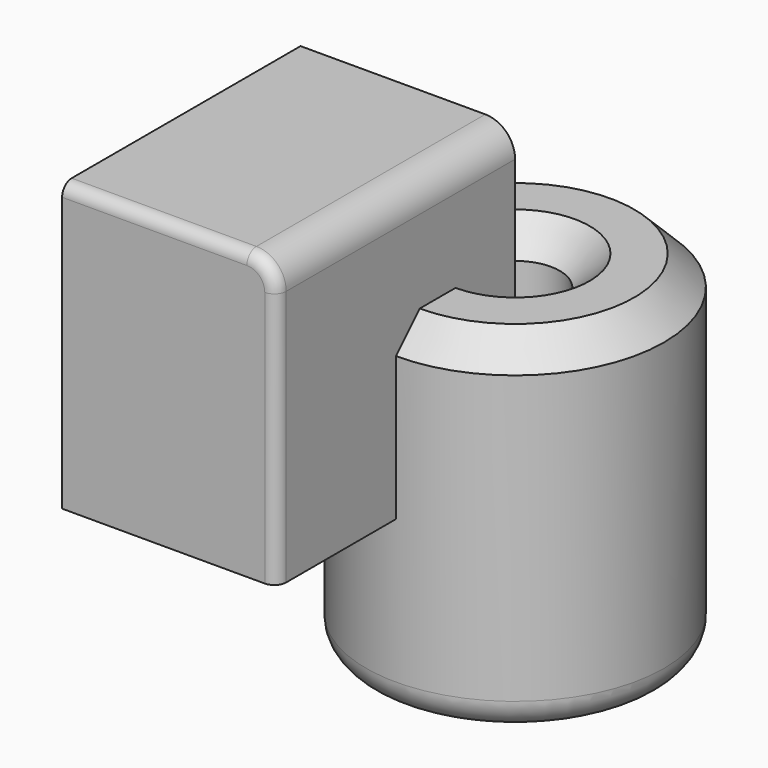
from build123d import *

# Parameters (mm, degrees)
F0_R     = 25
F0_R_2   = 7.5
F1_DEPTH = 29.07393
F2_W     = 36
F2_H     = 48
F3_DEPTH = 50
F4_SIZE  = 5
F5_R     = 5
F6_R     = 2
F7_R     = 5


with BuildPart() as f1:
    # F0 (on Top) → F1 (new body, symmetric)
    with BuildSketch(Plane.XY):
        Circle(F0_R)
        Circle(F0_R_2, mode=Mode.SUBTRACT)
    extrude(amount=F1_DEPTH, both=True)

    # F2 (on Front) → F3 (join)
    with BuildSketch(Plane.XZ):
        with Locations((-18, 24)):
            Rectangle(F2_W, F2_H)
    extrude(amount=F3_DEPTH)

    # F4
    f4_edges = [f1.edges().sort_by_distance(p)[0] for p in [
        (0, 25, 29.07393),
        (0, 7.5, 29.07393),
    ]]
    chamfer(f4_edges, length=F4_SIZE)

    # F5
    f5_edges = [f1.edges().sort_by_distance(p)[0] for p in [
        (0, -25, 48),
    ]]
    fillet(f5_edges, radius=F5_R)

    # F6
    f6_edges = [f1.edges().sort_by_distance(p)[0] for p in [
        (-20.5, -50, 48),
    ]]
    fillet(f6_edges, radius=F6_R)

    # F7
    f7_edges = [f1.edges().sort_by_distance(p)[0] for p in [
        (-25, 0, -29.07393),
    ]]
    fillet(f7_edges, radius=F7_R)


solid = f1.part
